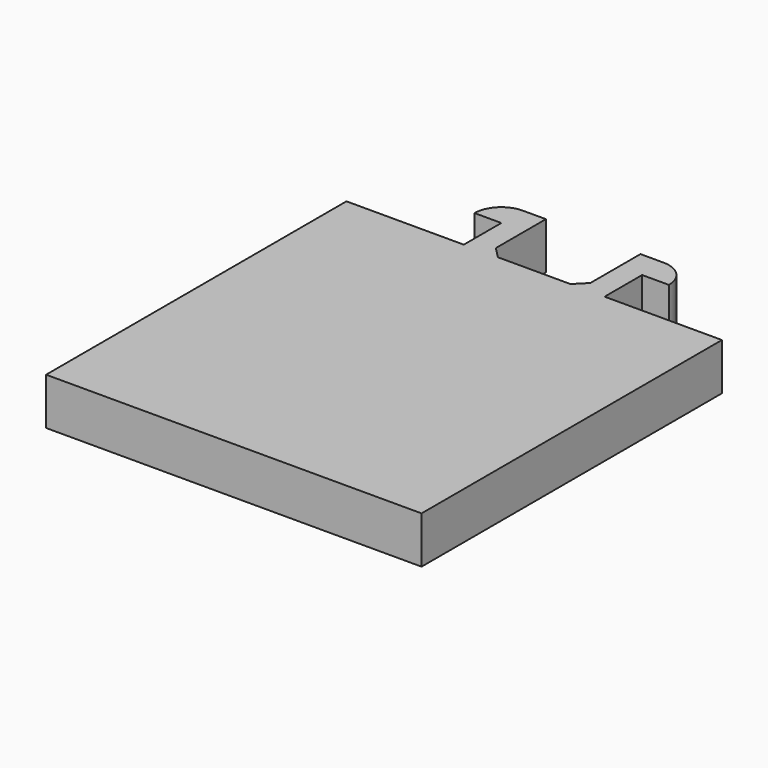
from build123d import *

# Parameters (mm, degrees)
EXTRUDE007_DEPTH = 1
BOX003_W         = 8
BOX003_H         = 8
BOX003_DEPTH     = 1


with BuildPart() as snapsnapextrude:
    # Sketch006 (on Face6 of Box003) → Extrude007 (new body)
    with BuildSketch(Plane(origin=(30.86, 17.4167, 1), x_dir=(1, 0, 0), z_dir=(0, 0, 1))):
        with BuildLine():
            Line((5.5, 9), (5.5, 8))
            Line((4.771508, 8), (5.5, 8))
            Line((5.007358, 8.23585), (4.771508, 8))
            Line((5.007358, 9.571194), (5.007358, 8.23585))
            Line((5.007358, 9.571194), (5.5, 9.571194))
            ThreePointArc((6.071194, 9), (5.903895, 9.403895), (5.5, 9.571194))
            Line((5.5, 9), (6.071194, 9))
        make_face()
        with BuildLine():
            Line((2.5, 8), (2.5, 9))
            Line((1.928806, 9), (2.5, 9))
            ThreePointArc((2.5, 9.571194), (2.096105, 9.403895), (1.928806, 9))
            Line((2.5, 9.571194), (2.992642, 9.571194))
            Line((2.992642, 8.23585), (2.992642, 9.571194))
            Line((2.992642, 8.23585), (3.228492, 8))
            Line((2.5, 8), (3.228492, 8))
        make_face()
    extrude(amount=-EXTRUDE007_DEPTH)


with BuildPart() as snapsnap:
    # Box003 → Box003 (new body)
    with BuildSketch(Plane(origin=(30.86, 17.4167, 0), x_dir=(1, 0, 0), z_dir=(0, 0, 1))):
        with Locations((4, 4)):
            Rectangle(BOX003_W, BOX003_H)
    extrude(amount=BOX003_DEPTH)

    # Fusion: union snapSnapExtrude
    add(snapsnapextrude.part)


solid = snapsnap.part
